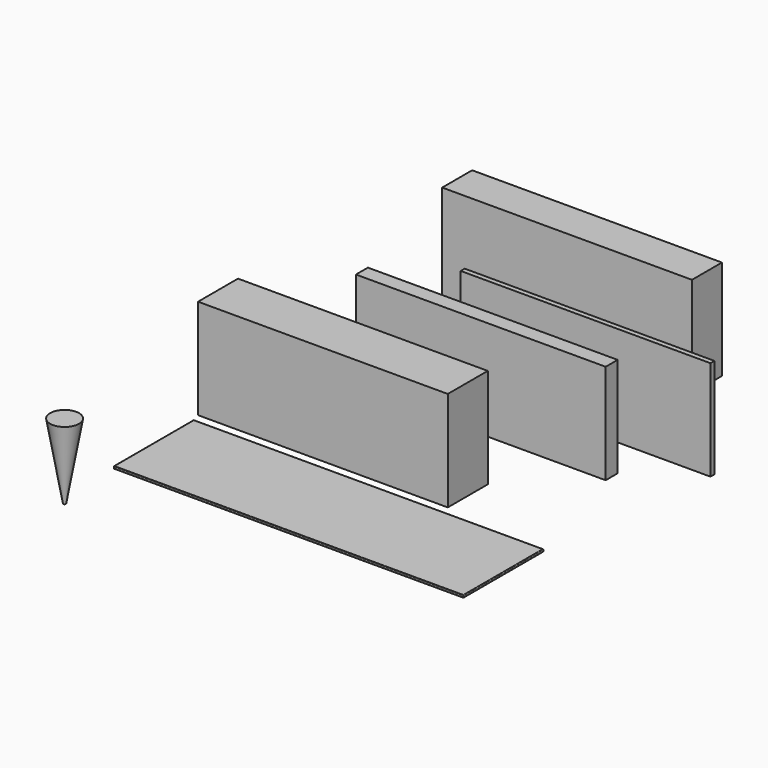
from build123d import *

# Parameters (mm, degrees)
F0_W      = 127
F0_H      = 25.4
F1_DEPTH  = 50.8
F2_W      = 127
F2_H      = 7.62
F3_DEPTH  = 50.8
F4_W      = 127
F4_H      = 2.54
F5_DEPTH  = 50.8
F6_W      = 127
F6_H      = 19.05
F7_DEPTH  = 50.8
F8_W      = 177.8
F8_H      = 50.8
F9_DEPTH  = 1.27
F10_R     = 0.254
F11_R     = 0.635
F12_DEPTH = 38.1
F12_TAPER = -10


with BuildPart() as f1:
    # F0 (on Top) → F1 (new body)
    with BuildSketch(Plane.XY):
        Rectangle(F0_W, F0_H)
    extrude(amount=F1_DEPTH)


with BuildPart() as f3:
    # F2 (on Top) → F3 (new body)
    with BuildSketch(Plane.XY):
        with Locations((34.3506590051, 48.5184900463)):
            Rectangle(F2_W, F2_H)
    extrude(amount=F3_DEPTH)


with BuildPart() as f5:
    # F4 (on Top) → F5 (new body)
    with BuildSketch(Plane.XY):
        with Locations((64.9371149779, 74.3728727102)):
            Rectangle(F4_W, F4_H)
    extrude(amount=F5_DEPTH)


with BuildPart() as f7:
    # F6 (on Top) → F7 (new body)
    with BuildSketch(Plane.XY):
        with Locations((14.3926842676, 134.0286082506)):
            Rectangle(F6_W, F6_H)
    extrude(amount=F7_DEPTH)


with BuildPart() as f9:
    # F8 (on Top) → F9 (new body)
    with BuildSketch(Plane.XY):
        with Locations((28.1193399813, -44.2528277636)):
            Rectangle(F8_W, F8_H)
    extrude(amount=F9_DEPTH)

    # F10
    f10_edges = [f9.edges().sort_by_distance(p)[0] for p in [
        (28.11934, -18.852828, 1.27),
        (28.11934, -18.852828, 0),
        (-60.78066, -44.252828, 0),
        (-60.78066, -44.252828, 1.27),
        (28.11934, -69.652828, 1.27),
        (28.11934, -69.652828, 0),
        (117.01934, -44.252828, 0),
        (117.01934, -44.252828, 1.27),
    ]]
    fillet(f10_edges, radius=F10_R)


with BuildPart() as f12:
    # F11 (on Top) → F12 (new body)
    with BuildSketch(Plane.XY):
        with Locations((-57.3935061693, -105.1504760981)):
            Circle(F11_R)
    extrude(amount=F12_DEPTH, taper=F12_TAPER)


solid = Compound([f1.part, f3.part, f5.part, f7.part, f9.part, f12.part])
